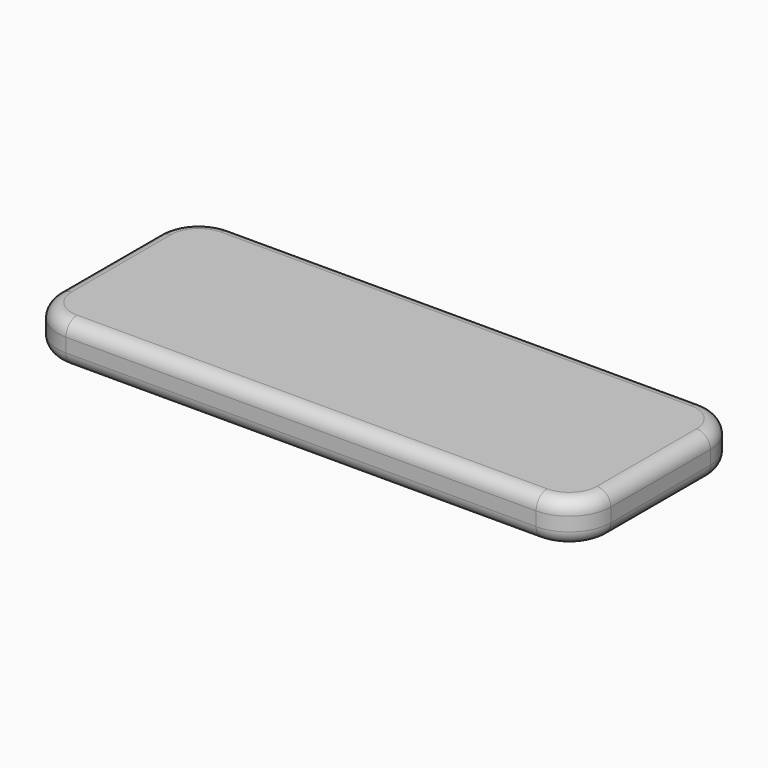
from build123d import *

# Parameters (mm, degrees)
F1_DEPTH = 3
F2_R     = 1


with BuildPart() as f1:
    # F0 (on Top) → F1 (new body)
    with BuildSketch(Plane.XY):
        with BuildLine():
            ThreePointArc((20, 4.5), (19.12132, 6.62132), (17, 7.5))
            Line((17, 7.5), (-17, 7.5))
            ThreePointArc((-17, 7.5), (-19.12132, 6.62132), (-20, 4.5))
            Line((-20, 4.5), (-20, -4.5))
            ThreePointArc((-20, -4.5), (-19.12132, -6.62132), (-17, -7.5))
            Line((-17, -7.5), (17, -7.5))
            ThreePointArc((17, -7.5), (19.12132, -6.62132), (20, -4.5))
            Line((20, -4.5), (20, 4.5))
        make_face()
    extrude(amount=-F1_DEPTH)

    # F2
    f2_edges = [f1.edges().sort_by_distance(p)[0] for p in [
        (19.12132, -6.62132, 0),
        (20, 0, 0),
        (19.12132, 6.62132, 0),
        (0, 7.5, 0),
        (-19.12132, 6.62132, 0),
        (-20, 0, 0),
        (-19.12132, -6.62132, 0),
        (0, -7.5, 0),
        (19.12132, -6.62132, -3),
        (20, 0, -3),
        (19.12132, 6.62132, -3),
        (0, 7.5, -3),
        (-19.12132, 6.62132, -3),
        (-20, 0, -3),
        (-19.12132, -6.62132, -3),
        (0, -7.5, -3),
    ]]
    fillet(f2_edges, radius=F2_R)


solid = f1.part
